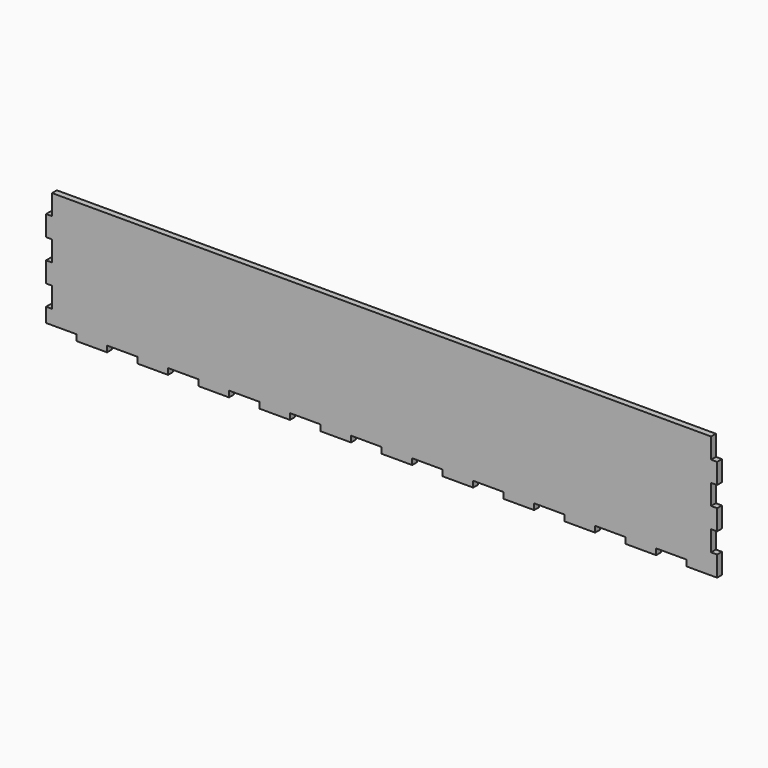
from build123d import *

# Parameters (mm, degrees)
F1_DEPTH = 3


with BuildPart() as f1:
    # F0 (on Front) → F1 (new body)
    with BuildSketch(Plane.XZ):
        Polygon((152.0495, -30.5), (167.2495, -30.5), (167.2495, -27.5), (167.2495, -20.33), (164.2495, -20.33), (164.2495, -10.164), (167.2495, -10.164), (167.2495, 0.002), (164.2495, 0.002), (164.2495, 10.168), (167.2495, 10.168), (167.2495, 20.334), (164.2495, 20.334), (164.2495, 30.5), (-164.2495, 30.5), (-164.2495, 20.334), (-167.2495, 20.334), (-167.2495, 10.168), (-164.2495, 10.168), (-164.2495, 0.002), (-167.2495, 0.002), (-167.2495, -10.164), (-164.2495, -10.164), (-164.2495, -20.33), (-167.2495, -20.33), (-167.2495, -27.5), (-152.0495, -27.5), (-152.0495, -30.5), (-136.8495, -30.5), (-136.8495, -27.5), (-121.6495, -27.5), (-121.6495, -30.5), (-106.4495, -30.5), (-106.4495, -27.5), (-91.2495, -27.5), (-91.2495, -30.5), (-76.0495, -30.5), (-76.0495, -27.5), (-60.8495, -27.5), (-60.8495, -30.5), (-45.6495, -30.5), (-45.6495, -27.5), (-30.4495, -27.5), (-30.4495, -30.5), (-15.2495, -30.5), (-15.2495, -27.5), (-0.0495, -27.5), (0.0495, -27.5), (0.0495, -30.5), (15.2495, -30.5), (15.2495, -27.5), (30.4495, -27.5), (30.4495, -30.5), (45.6495, -30.5), (45.6495, -27.5), (60.8495, -27.5), (60.8495, -30.5), (76.0495, -30.5), (76.0495, -27.5), (91.2495, -27.5), (91.2495, -30.5), (106.4495, -30.5), (106.4495, -27.5), (121.6495, -27.5), (121.6495, -30.5), (136.8495, -30.5), (136.8495, -27.5), (152.0495, -27.5), align=None)
    extrude(amount=F1_DEPTH)


solid = f1.part
